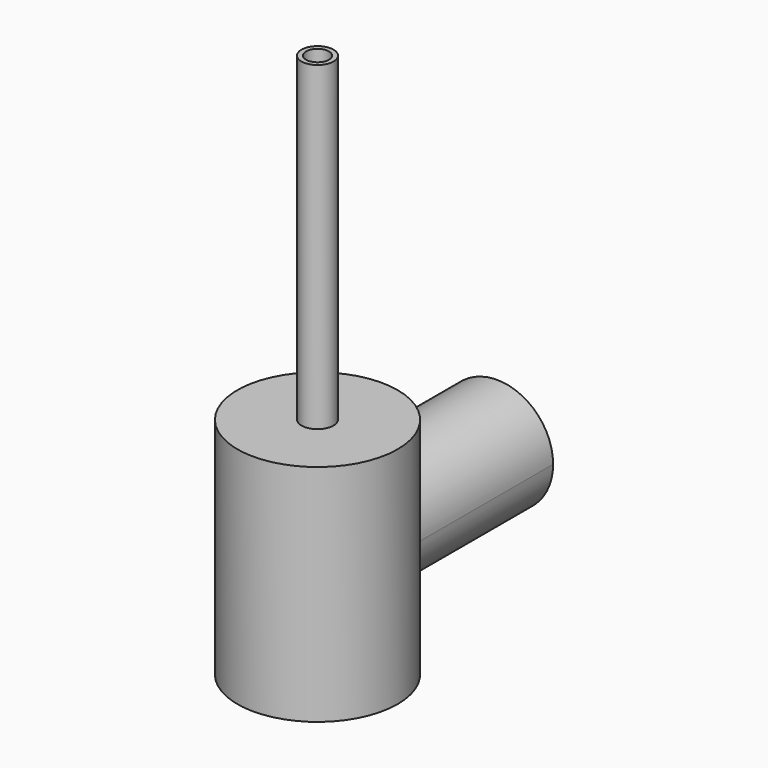
from build123d import *

# Parameters (mm, degrees)
F0_R      = 63.5
F1_DEPTH  = 177.8
F3_DEPTH  = 177.8
F5_R      = 12.7
F6_DEPTH  = 254
F7_R      = 38.0000038218
F8_DEPTH  = 203.2
F9_R      = 9.036335061
F10_DEPTH = 228.6


with BuildPart() as f1:
    # F0 (on Top) → F1 (new body)
    with BuildSketch(Plane.XY):
        Circle(F0_R)
    extrude(amount=F1_DEPTH)

    # F2 (on Front) → F3 (join)
    with BuildSketch(Plane.XZ):
        with BuildLine():
            ThreePointArc((0, 44.45), (31.4308964237, 57.4691035763), (44.45, 88.9))
            ThreePointArc((44.45, 88.9), (-31.4308964237, 120.3308964237), (0, 44.45))
        make_face()
    extrude(amount=-F3_DEPTH)

    # F5 (on face) → F6 (join)
    with BuildSketch(Plane.XY.offset(177.8)):
        Circle(F5_R)
    extrude(amount=F6_DEPTH)

    # F7 (on face) → F8 (cut)
    with BuildSketch(Plane(origin=(0, 177.8, 0), x_dir=(-1, 0, 0), z_dir=(0, 1, 0))):
        with Locations((0, 88.7276828289)):
            Circle(F7_R)
    extrude(amount=-F8_DEPTH, mode=Mode.SUBTRACT)

    # F9 (on face) → F10 (cut)
    with BuildSketch(Plane.XY.offset(431.8)):
        Circle(F9_R)
    extrude(amount=-F10_DEPTH, mode=Mode.SUBTRACT)


solid = f1.part
